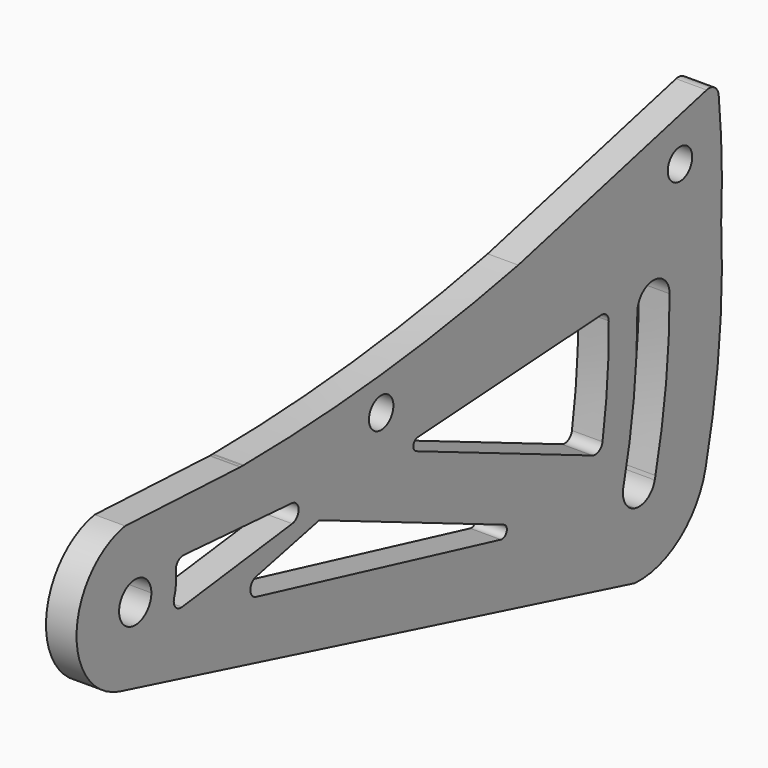
from build123d import *

# Parameters (mm, degrees)
F0_R     = 2.5
F1_DEPTH = 5


with BuildPart() as f1:
    # F0 (on Right) → F1 (new body)
    with BuildSketch(Plane.YZ):
        with BuildLine():
            ThreePointArc((102.1820204733, -38.7985140437), (111.3688992979, -36.087326884), (116.6625133499, -28.1044120891))
            ThreePointArc((116.6625133499, -28.1044120891), (119.4793240413, -11.1665181072), (119.8499061326, 6))
            ThreePointArc((119.8499061326, 6), (119.9551556627, 15.2803399129), (119.3428752162, 24.5410579746))
            ThreePointArc((119.3428752162, 24.5410579746), (118.5020303548, 25.9696085801), (116.872434029, 26.2732411356))
            Line((116.872434029, 26.2732411356), (78.344444671, 16.7187866332))
            ThreePointArc((78.344444671, 16.7187866332), (50.4120849121, 12.3407543123), (22.1844688263, 10.7327808001))
            ThreePointArc((22.1844688263, 10.7327808001), (22.0736743793, 10.7245163933), (21.9626931438, 10.7193322557))
            ThreePointArc((21.9626931438, 10.7193322557), (21.897134346, 10.7177196915), (21.8315579223, 10.717182122))
            ThreePointArc((21.8315579223, 10.717182122), (21.6468606164, 10.7214485341), (21.4625573078, 10.7342386694))
            Line((21.4625573078, 10.7342386694), (-2.0614712889, 11.8216046341))
            ThreePointArc((-2.0614712889, 11.8216046341), (-11.9825923491, 0.6461273838), (-3.3207151947, -11.5313854586))
            Line((-3.3207151947, -11.5313854586), (-2.6824780436, -11.696337527))
            Line((-2.6824780436, -11.696337527), (95.7506312441, -37.1363247556))
            Line((95.7506312441, -37.1363247556), (98.966975845, -37.9675873883))
            Line((98.966975845, -37.9675873883), (102.1820204733, -38.7985140437))
        make_face()
        with BuildLine():
            Line((74.7801037599, -21.3838166757), (24.7079464878, -9.2750381753))
            ThreePointArc((24.7079464878, -9.2750381753), (23.5605944603, -7.8024693416), (24.7363828951, -6.3525047896))
            Line((24.7363828951, -6.3525047896), (37.64646566, -3.4952066638))
            Line((37.64646566, -3.4952066638), (39.6840657747, -4.3584005208))
            Line((39.6840657747, -4.3584005208), (75.4052290095, -19.4910501744))
            ThreePointArc((75.4052290095, -19.4910501744), (75.9647072114, -20.7254429281), (74.7801037599, -21.3838166757))
        make_face(mode=Mode.SUBTRACT)
        with BuildLine():
            ThreePointArc((96.8537245562, 1.1511288497), (96.5833908806, -7.3224083499), (95.5731457656, -15.7398496344))
            ThreePointArc((95.5731457656, -15.7398496344), (94.8167325655, -16.8099987725), (93.5079720679, -16.8772748216))
            Line((93.5079720679, -16.8772748216), (57.4962823848, -1.6215486902))
            ThreePointArc((57.4962823848, -1.6215486902), (56.9006424726, -0.5323364967), (57.8241552759, 0.297298489))
            Line((57.8241552759, 0.297298489), (95.2605289234, 2.6303977234))
            ThreePointArc((95.2605289234, 2.6303977234), (96.3744600577, 2.2325362159), (96.8537245562, 1.1511288497))
        make_face(mode=Mode.SUBTRACT)
        with BuildLine():
            ThreePointArc((106.0047579916, 3.2999965699), (108.335133976, 2.3317695671), (109.3, 0))
            ThreePointArc((109.3, 0), (108.5733985389, -12.5820161229), (106.403254717, -24.9967475011))
            ThreePointArc((106.403254717, -24.9967475011), (106.3321059009, -25.2976926752), (106.2601059096, -25.5984353445))
            ThreePointArc((106.2601059096, -25.5984353445), (104.7727098756, -27.6413708088), (102.2762174538, -28.0331077884))
            ThreePointArc((102.2762174538, -28.0331077884), (102.0809432414, -27.9794930887), (101.8893251401, -27.9140021941))
            ThreePointArc((101.8893251401, -27.9140021941), (100.1771054463, -26.4459442797), (99.8077413449, -24.2209812507))
            ThreePointArc((99.8077413449, -24.2209812507), (99.8054980044, -24.2204076148), (99.803254717, -24.2198337711))
            ThreePointArc((99.803254717, -24.2198337711), (99.8234961781, -24.1362716836), (99.8436676753, -24.0526926796))
            ThreePointArc((99.8436676753, -24.0526926796), (101.9834169614, -12.1108490566), (102.7, 0))
            ThreePointArc((102.7, 0), (103.5243491823, 2.1820066519), (105.5855472903, 3.2738706376))
            ThreePointArc((105.5855472903, 3.2738706376), (105.7947365556, 3.2936100131), (106.0047579916, 3.2999965699))
        make_face(mode=Mode.SUBTRACT)
        with BuildLine():
            ThreePointArc((0.9709435511, 3.1539290767), (2.6546293261, 1.960342608), (3.3, 0))
            ThreePointArc((3.3, 0), (-2.6546293261, -1.960342608), (0.9709435511, 3.1539290767))
        make_face(mode=Mode.SUBTRACT)
        with BuildLine():
            ThreePointArc((9.5663779465, -4.5835158726), (8.220643901, -4.0486256327), (7.9543036044, -2.6251894605))
            ThreePointArc((7.9543036044, -2.6251894605), (8.3387505543, -0.792341295), (8.3063784002, 1.0801126827))
            ThreePointArc((8.3063784002, 1.0801126827), (8.7016404445, 2.3016729085), (9.8971035196, 2.769977836))
            Line((9.8971035196, 2.769977836), (32.0235012294, 1.2433501427))
            ThreePointArc((32.0235012294, 1.2433501427), (33.4196537084, -0.210693525), (32.1078987642, -1.7413089889))
            Line((32.1078987642, -1.7413089889), (9.5663779465, -4.5835158726))
        make_face(mode=Mode.SUBTRACT)
        with Locations((50.3031872213, 6.8563437089)):
            Circle(F0_R, mode=Mode.SUBTRACT)
        with Locations((111.4225909114, 17.8264938295)):
            Circle(F0_R, mode=Mode.SUBTRACT)
        with BuildLine():
            ThreePointArc((102.1820204733, -38.7985140437), (111.3688992979, -36.087326884), (116.6625133499, -28.1044120891))
            ThreePointArc((116.6625133499, -28.1044120891), (119.4793240413, -11.1665181072), (119.8499061326, 6))
            ThreePointArc((119.8499061326, 6), (119.9551556627, 15.2803399129), (119.3428752162, 24.5410579746))
            ThreePointArc((119.3428752162, 24.5410579746), (118.5020303548, 25.9696085801), (116.872434029, 26.2732411356))
            Line((116.872434029, 26.2732411356), (78.344444671, 16.7187866332))
            ThreePointArc((78.344444671, 16.7187866332), (50.4120849121, 12.3407543123), (22.1844688263, 10.7327808001))
            ThreePointArc((22.1844688263, 10.7327808001), (22.0736743793, 10.7245163933), (21.9626931438, 10.7193322557))
            ThreePointArc((21.9626931438, 10.7193322557), (21.897134346, 10.7177196915), (21.8315579223, 10.717182122))
            ThreePointArc((21.8315579223, 10.717182122), (21.6468606164, 10.7214485341), (21.4625573078, 10.7342386694))
            Line((21.4625573078, 10.7342386694), (-2.0614712889, 11.8216046341))
            ThreePointArc((-2.0614712889, 11.8216046341), (-11.9825923491, 0.6461273838), (-3.3207151947, -11.5313854586))
            Line((-3.3207151947, -11.5313854586), (-2.6824780436, -11.696337527))
            Line((-2.6824780436, -11.696337527), (95.7506312441, -37.1363247556))
            Line((95.7506312441, -37.1363247556), (98.966975845, -37.9675873883))
            Line((98.966975845, -37.9675873883), (102.1820204733, -38.7985140437))
        make_face()
        with BuildLine():
            Line((74.7801037599, -21.3838166757), (24.7079464878, -9.2750381753))
            ThreePointArc((24.7079464878, -9.2750381753), (23.5605944603, -7.8024693416), (24.7363828951, -6.3525047896))
            Line((24.7363828951, -6.3525047896), (37.64646566, -3.4952066638))
            Line((37.64646566, -3.4952066638), (39.6840657747, -4.3584005208))
            Line((39.6840657747, -4.3584005208), (75.4052290095, -19.4910501744))
            ThreePointArc((75.4052290095, -19.4910501744), (75.9647072114, -20.7254429281), (74.7801037599, -21.3838166757))
        make_face(mode=Mode.SUBTRACT)
        with BuildLine():
            ThreePointArc((96.8537245562, 1.1511288497), (96.5833908806, -7.3224083499), (95.5731457656, -15.7398496344))
            ThreePointArc((95.5731457656, -15.7398496344), (94.8167325655, -16.8099987725), (93.5079720679, -16.8772748216))
            Line((93.5079720679, -16.8772748216), (57.4962823848, -1.6215486902))
            ThreePointArc((57.4962823848, -1.6215486902), (56.9006424726, -0.5323364967), (57.8241552759, 0.297298489))
            Line((57.8241552759, 0.297298489), (95.2605289234, 2.6303977234))
            ThreePointArc((95.2605289234, 2.6303977234), (96.3744600577, 2.2325362159), (96.8537245562, 1.1511288497))
        make_face(mode=Mode.SUBTRACT)
        with BuildLine():
            ThreePointArc((106.0047579916, 3.2999965699), (108.335133976, 2.3317695671), (109.3, 0))
            ThreePointArc((109.3, 0), (108.5733985389, -12.5820161229), (106.403254717, -24.9967475011))
            ThreePointArc((106.403254717, -24.9967475011), (106.3321059009, -25.2976926752), (106.2601059096, -25.5984353445))
            ThreePointArc((106.2601059096, -25.5984353445), (104.7727098756, -27.6413708088), (102.2762174538, -28.0331077884))
            ThreePointArc((102.2762174538, -28.0331077884), (102.0809432414, -27.9794930887), (101.8893251401, -27.9140021941))
            ThreePointArc((101.8893251401, -27.9140021941), (100.1771054463, -26.4459442797), (99.8077413449, -24.2209812507))
            ThreePointArc((99.8077413449, -24.2209812507), (99.8054980044, -24.2204076148), (99.803254717, -24.2198337711))
            ThreePointArc((99.803254717, -24.2198337711), (99.8234961781, -24.1362716836), (99.8436676753, -24.0526926796))
            ThreePointArc((99.8436676753, -24.0526926796), (101.9834169614, -12.1108490566), (102.7, 0))
            ThreePointArc((102.7, 0), (103.5243491823, 2.1820066519), (105.5855472903, 3.2738706376))
            ThreePointArc((105.5855472903, 3.2738706376), (105.7947365556, 3.2936100131), (106.0047579916, 3.2999965699))
        make_face(mode=Mode.SUBTRACT)
        with BuildLine():
            ThreePointArc((0.9709435511, 3.1539290767), (2.6546293261, 1.960342608), (3.3, 0))
            ThreePointArc((3.3, 0), (-2.6546293261, -1.960342608), (0.9709435511, 3.1539290767))
        make_face(mode=Mode.SUBTRACT)
        with BuildLine():
            ThreePointArc((9.5663779465, -4.5835158726), (8.220643901, -4.0486256327), (7.9543036044, -2.6251894605))
            ThreePointArc((7.9543036044, -2.6251894605), (8.3387505543, -0.792341295), (8.3063784002, 1.0801126827))
            ThreePointArc((8.3063784002, 1.0801126827), (8.7016404445, 2.3016729085), (9.8971035196, 2.769977836))
            Line((9.8971035196, 2.769977836), (32.0235012294, 1.2433501427))
            ThreePointArc((32.0235012294, 1.2433501427), (33.4196537084, -0.210693525), (32.1078987642, -1.7413089889))
            Line((32.1078987642, -1.7413089889), (9.5663779465, -4.5835158726))
        make_face(mode=Mode.SUBTRACT)
        with Locations((50.3031872213, 6.8563437089)):
            Circle(F0_R, mode=Mode.SUBTRACT)
        with Locations((111.4225909114, 17.8264938295)):
            Circle(F0_R, mode=Mode.SUBTRACT)
        with BuildLine():
            ThreePointArc((-3.3207151947, -11.5313854586), (-3.0027295184, -11.618244938), (-2.6824780436, -11.696337527))
            Line((-2.6824780436, -11.696337527), (-3.3207151947, -11.5313854586))
        make_face()
        with BuildLine():
            ThreePointArc((21.9626931438, 10.7193322557), (22.0736743793, 10.7245163933), (22.1844688263, 10.7327808001))
            ThreePointArc((22.1844688263, 10.7327808001), (22.0739250085, 10.7319598925), (21.9633808826, 10.731181571))
            ThreePointArc((21.9633808826, 10.731181571), (21.9630378123, 10.7252568669), (21.9626931438, 10.7193322557))
        make_face()
        with BuildLine():
            ThreePointArc((21.8315579223, 10.717182122), (21.897134346, 10.7177196915), (21.9626931438, 10.7193322557))
            ThreePointArc((21.9626931438, 10.7193322557), (21.9630378123, 10.7252568669), (21.9633808826, 10.731181571))
            ThreePointArc((21.9633808826, 10.731181571), (21.7716697335, 10.7299327404), (21.5799577929, 10.728811993))
            Line((21.5799577929, 10.728811993), (21.8315579223, 10.717182122))
        make_face()
        with BuildLine():
            ThreePointArc((21.4625573078, 10.7342386694), (21.6468606164, 10.7214485341), (21.8315579223, 10.717182122))
            Line((21.8315579223, 10.717182122), (21.5799577929, 10.728811993))
            Line((21.5799577929, 10.728811993), (21.4625573078, 10.7342386694))
        make_face()
    extrude(amount=F1_DEPTH)


solid = f1.part
